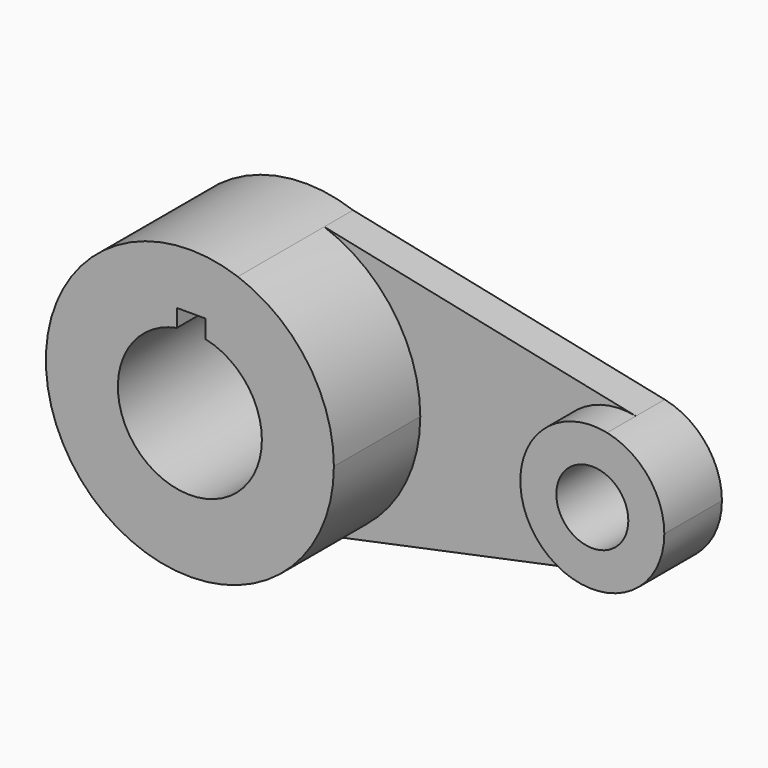
from build123d import *

# Parameters (mm, degrees)
F1_DEPTH = 25.4
F2_DEPTH = 6.35
F0_R     = 6.35
F3_DEPTH = 12.7


with BuildPart() as f1:
    # F0 (on Front) → F1 (new body)
    with BuildSketch(Plane.XZ):
        with BuildLine():
            ThreePointArc((-25.623486, -23.949636), (-13.346651, -14.667498), (-8.683683, 0))
            ThreePointArc((-8.683683, 0), (-13.346651, 14.667498), (-25.623486, 23.949636))
            ThreePointArc((-25.623486, 23.949636), (-59.483683, 0), (-25.623486, -23.949636))
        make_face()
        with BuildLine():
            ThreePointArc((-31.31444, 12.394406), (-24.172594, 7.941052), (-21.383683, 0))
            ThreePointArc((-21.383683, 0), (-42.205979, -9.763109), (-36.39444, 12.48801))
            Line((-36.39444, 12.48801), (-36.39444, 15.597617))
            Line((-36.39444, 15.597617), (-31.31444, 15.597617))
            Line((-31.31444, 15.597617), (-31.31444, 12.394406))
        make_face(mode=Mode.SUBTRACT)
    extrude(amount=F1_DEPTH)

    # F0 (on Front) → F2 (join)
    with BuildSketch(Plane.XZ):
        with BuildLine():
            ThreePointArc((-25.623486, 23.949636), (-13.346651, 14.667498), (-8.683683, 0))
            ThreePointArc((-8.683683, 0), (-13.346651, -14.667498), (-25.623486, -23.949636))
            Line((-25.623486, -23.949636), (29.342367, -12.429951))
            ThreePointArc((29.342367, -12.429951), (14.037311, 0), (29.342367, 12.429951))
            Line((29.342367, 12.429951), (-25.623486, 23.949636))
        make_face()
    extrude(amount=F2_DEPTH)

    # F0 (on Front) → F3 (join)
    with BuildSketch(Plane.XZ):
        with BuildLine():
            ThreePointArc((39.437311, 0), (36.595664, 8.006428), (29.342367, 12.429951))
            ThreePointArc((29.342367, 12.429951), (14.037311, 0), (29.342367, -12.429951))
            ThreePointArc((29.342367, -12.429951), (36.595664, -8.006428), (39.437311, 0))
        make_face()
        with Locations((26.737311, 0)):
            Circle(F0_R, mode=Mode.SUBTRACT)
    extrude(amount=F3_DEPTH)


solid = f1.part
